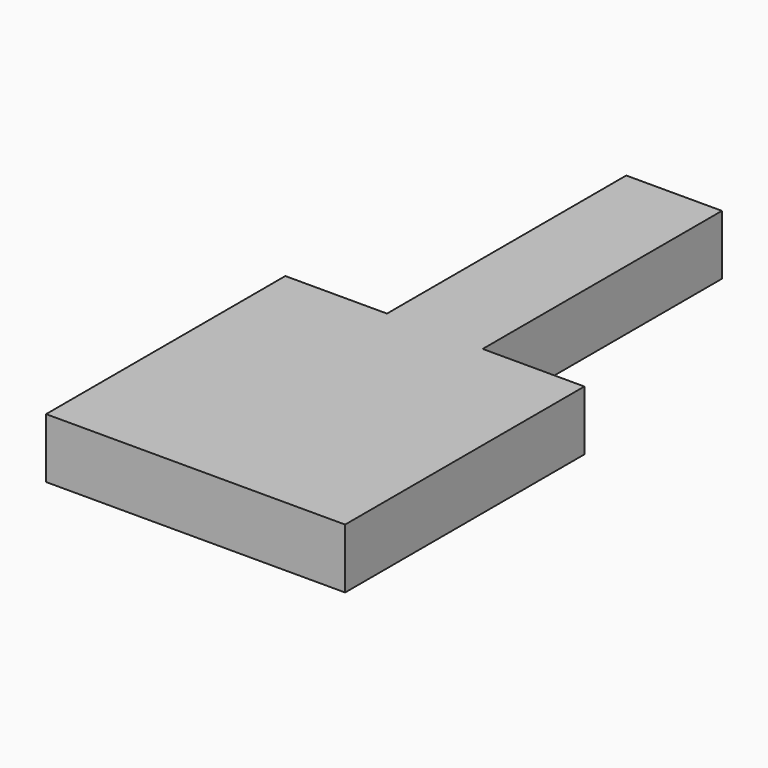
from build123d import *

# Parameters (mm, degrees)
F0_W     = 3.75
F0_H     = 25
F0_W_2   = 0.5
F1_DEPTH = 5


with BuildPart() as f1:
    # F0 (on Top) → F1 (new body)
    with BuildSketch(Plane.XY):
        Polygon((12.5, -12.5), (4, -12.5), (0.25, -12.5), (-0.25, -12.5), (-4, -12.5), (-12.5, -12.5), (-12.5, -37.5), (12.5, -37.5), align=None)
        with Locations((2.125, 0)):
            Rectangle(F0_W, F0_H)
        Rectangle(F0_W_2, F0_H)
        with Locations((-2.125, 0)):
            Rectangle(F0_W, F0_H)
    extrude(amount=F1_DEPTH)


solid = f1.part
